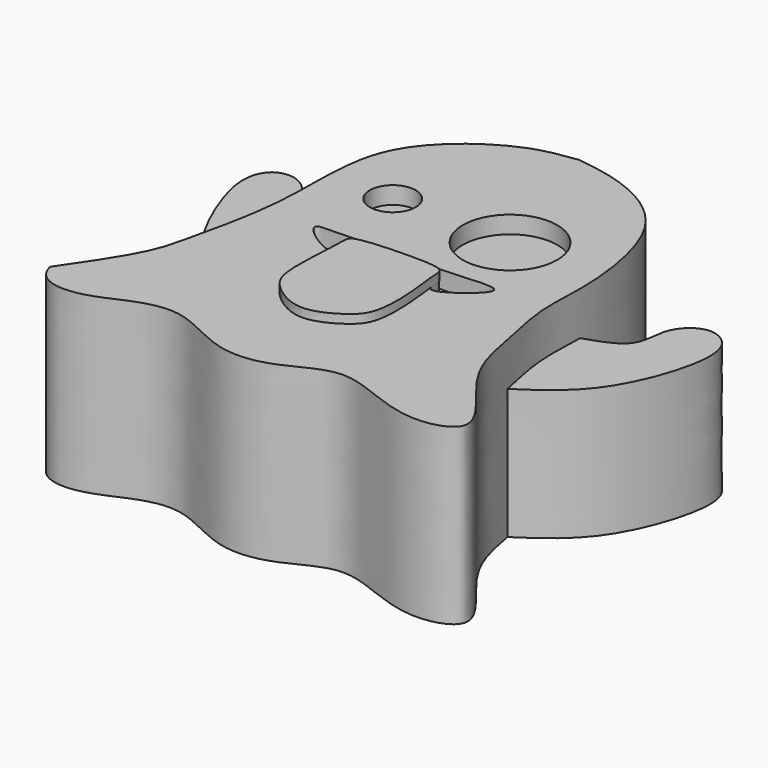
from build123d import *

# Parameters (mm, degrees)
F2_DEPTH = 25.4
F3_DEPTH = 19.05
F5_R     = 3.3574992829
F5_R_2   = 6.8962868763
F6_DEPTH = 2.54
F8_DEPTH = 1.27


with BuildPart() as f2:
    # F0 (on Top) → F2 (new body)
    with BuildSketch(Plane.XY):
        with BuildLine():
            add(Edge.make_bspline(
                [(-30.577050522, -24.9520801008), (-29.8750871827, -27.9799042117), (-24.263394555, -29.0064776543), (-18.0612773362, -25.4337749316), (-11.261311932, -23.8936931853), (-3.4385888853, -29.260485635), (4.5623986259, -28.4044227429), (11.4480654753, -23.585826215), (18.8842197216, -26.9994212614), (25.9831358892, -29.0723176834), (33.889425113, -25.9712057612), (22.9618004373, -15.8173997978), (21.6120675559, -6.8608448836), (19.4541638752, 1.9034519948), (20.5567252499, 10.2472016457), (18.005230974, 26.3192575671), (7.7528391117, 32.2704659297), (2.4397179909, 33.068617549), (0, 33.3652347326)],
                knots=[0, 0, 0, 0, 0.0555996863, 0.1135003644, 0.1681442332, 0.2322230889, 0.2918508118, 0.3514158892, 0.4104727235, 0.4705252707, 0.5187220722, 0.5922874626, 0.6595196441, 0.7219346649, 0.7851565781, 0.8694157261, 0.9405333546, 1, 1, 1, 1], degree=3))
            add(Edge.make_bspline(
                [(0, 33.3652347326), (-2.2128607705, 33.0330397116), (-7.3962618534, 32.5478381046), (-21.2980661467, 22.5843492267), (-19.0845907113, 4.9850002884), (-23.4344990336, -12.3488577398), (-23.8688584038, -15.2258834623), (-30.577050522, -24.9520801008)],
                knots=[0, 0, 0, 0, 0.1440669232, 0.3504186513, 0.5734494767, 0.7799696046, 1, 1, 1, 1], degree=3))
        make_face()
    extrude(amount=F2_DEPTH)

    # F1 (on Top) → F3 (join)
    with BuildSketch(Plane.XY):
        with BuildLine():
            add(Edge.make_bspline(
                [(-21.8474660069, -6.1467275955), (-23.3758188019, -5.2211146804), (-26.7880110709, -3.1545962411), (-31.2397325676, 4.4604457914), (-33.3544743123, 9.7034698485), (-34.8880087468, 15.0563524201), (-33.5699728209, 19.0019419023), (-29.8674226856, 19.6417750372), (-26.6372995809, 16.8418083449), (-27.5840781821, 12.3123760081), (-22.9219976268, 9.7216917981), (-20.1471243054, 8.1797149032)],
                knots=[0, 0, 0, 0, 0.1165890705, 0.2602961348, 0.379615032, 0.4934533059, 0.5862240428, 0.6728307037, 0.76617617, 0.8608279072, 1, 1, 1, 1], degree=3))
            add(Edge.make_bspline(
                [(-20.1471243054, 8.1797149032), (-20.2156376988, 4.3061689257), (-20.3272767054, -2.0055725228), (-21.4238608193, -4.992782643), (-21.8474660069, -6.1467275955)],
                knots=[0, 0, 0, 0, 0.6137047928, 1, 1, 1, 1], degree=3))
        make_face()
        with BuildLine():
            add(Edge.make_bspline(
                [(19.9457015842, 8.5346363485), (22.2833270448, 9.2995990155), (26.6670108071, 10.734112148), (25.8629622979, 16.52538335), (29.96519668, 20.1371935364), (34.6576624406, 17.707180758), (34.4112792093, 10.3352633574), (29.8314269927, -0.8003615683), (24.1212637744, -4.5800254345), (21.3915687054, -6.3868616708)],
                knots=[0, 0, 0, 0, 0.1402564045, 0.2630189196, 0.3802908278, 0.4900717024, 0.633277893, 0.8246916088, 1, 1, 1, 1], degree=3))
            add(Edge.make_bspline(
                [(21.3915687054, -6.3868616708), (20.7898808373, -3.9746669912), (19.5788991786, 0.8802148657), (19.8229232277, 5.9725013254), (19.9457015842, 8.5346363485)],
                knots=[0, 0, 0, 0, 0.4968596046, 1, 1, 1, 1], degree=3))
        make_face()
    extrude(amount=F3_DEPTH)

    # F5 (on offset) → F6 (cut)
    with BuildSketch(Plane.XY.offset(25.4)):
        with BuildLine():
            add(Edge.make_bspline(
                [(-7.1071968222, -1.9791423657), (-7.6500368077, -2.4327569832), (-11.3999970407, -0.7676865902), (-14.0334455873, 2.1016686035), (-10.4703480807, 2.0394728468), (-2.5359056055, 2.4201795141), (5.3719749684, 2.1490552813), (14.5048736899, 3.2523571344), (10.2779594899, -0.8356316633), (6.1517973542, -3.1849491095), (6.7133820813, 0.0651573409), (4.7412998078, 0.9812851072), (-1.1842856701, 0.6164516758), (-4.963004476, 0.7688322795), (-7.2454033551, -0.1021114397), (-6.7813349055, -1.7068416277), (-7.1071968222, -1.9791423657)],
                knots=[0, 0, 0, 0, 0.0765516, 0.1392468064, 0.1926436788, 0.2969048972, 0.4086921522, 0.4995607805, 0.5702692331, 0.6409800553, 0.691577623, 0.740186518, 0.8297602369, 0.9036822114, 0.9540467692, 1, 1, 1, 1], degree=3))
        make_face()
        with Locations((-10.5575712089, 12.5898170626)):
            Circle(F5_R)
        with Locations((6.6410916153, 12.4940418395)):
            Circle(F5_R_2)
    extrude(amount=-F6_DEPTH, mode=Mode.SUBTRACT)

    # F7 (on offset) → F8 (join)
    with BuildSketch(Plane.XY.offset(25.4)):
        with BuildLine():
            add(Edge.make_bspline(
                [(-6.9353398867, -0.728152052), (-6.9887283416, -1.3493032888), (-6.9669862646, -3.8294625514), (-7.668738891, -11.688871403), (-5.393267542, -14.7845204424), (-0.4588378023, -17.8429928562), (4.9745957576, -14.9037087269), (7.108438016, -12.384358223), (7.1512906765, -6.2920027828), (6.4528279132, -1.8958996918), (6.4775937127, 0.121757782), (5.0795324688, 1.0693704248), (-3.1261610836, 0.7671309254), (-5.0366202758, 0.5396910661), (-6.8042150363, 0.1446876721), (-6.9079155522, -0.4090819582), (-6.9353398867, -0.728152052)],
                knots=[0, 0, 0, 0, 0.0651926195, 0.1709213669, 0.2442248538, 0.3303899927, 0.4198651039, 0.4873304048, 0.5795676342, 0.6613345837, 0.7106388056, 0.7552485565, 0.8630417373, 0.9205324975, 0.9665121568, 1, 1, 1, 1], degree=3))
        make_face()
    extrude(amount=F8_DEPTH)


solid = f2.part
